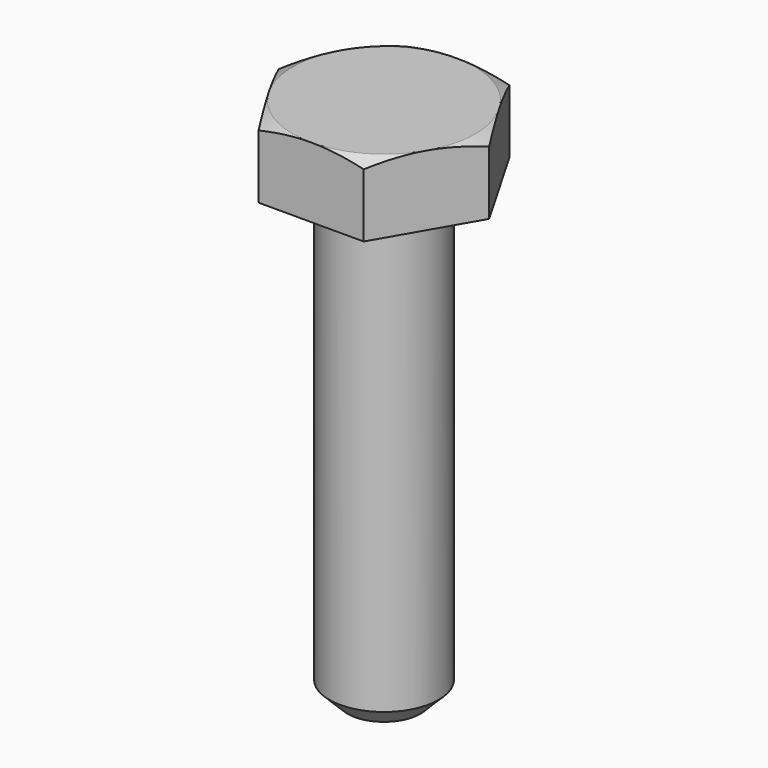
from build123d import *

# Parameters (mm, degrees)
SKETCH001_R  = 7.773503
POCKET_DEPTH = 29.001
CHAMFER_SIZE = 1


with BuildPart() as part:
    # Sketch → Revolution (revolve)
    with BuildSketch(Plane.XZ):
        Polygon((0, 4), (5, 4), (6, 3.533692), (6, 0.15), (4.44, 0.15), (4.44, 0), (3, 0), (3, -25), (0, -25), align=None)
    revolve(axis=Axis((0, 0, 0), (0, 0, 1)))

    # Sketch001 → Pocket (cut, through all)
    with BuildSketch(Plane(origin=(0, 0, 4), x_dir=(-1, 0, 0), z_dir=(0, 0, 1))):
        Circle(SKETCH001_R)
        Polygon((-2.886751, 5), (2.886751, 5), (5.773503, 0), (2.886751, -5), (-2.886751, -5), (-5.773503, 0), align=None, mode=Mode.SUBTRACT)
    extrude(amount=-POCKET_DEPTH, mode=Mode.SUBTRACT)

    # Chamfer
    chamfer_edges = [part.edges().sort_by_distance(p)[0] for p in [
        (-3, 0, -25),
    ]]
    chamfer(chamfer_edges, length=CHAMFER_SIZE)


solid = part.part
